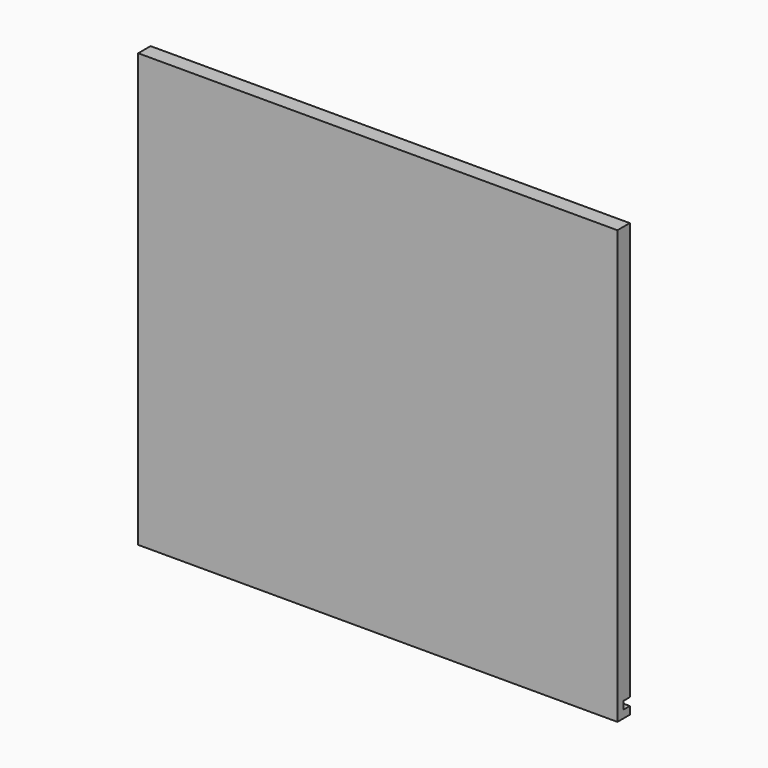
from build123d import *

# Parameters (mm, degrees)
F0_W     = 393.7
F0_H     = 355.6
F1_DEPTH = 6.35
F2_W     = 393.7
F2_H     = 6.35
F3_DEPTH = 6.35


with BuildPart() as f1:
    # F0 (on Front) → F1 (new body, symmetric)
    with BuildSketch(Plane.XZ):
        Rectangle(F0_W, F0_H)
        Rectangle(F0_W, F0_H)
    extrude(amount=F1_DEPTH, both=True)

    # F2 (on face) → F3 (cut)
    with BuildSketch(Plane(origin=(0, 6.35, 0), x_dir=(-1, 0, 0), z_dir=(0, 1, 0))):
        with Locations((0, -168.275)):
            Rectangle(F2_W, F2_H)
    extrude(amount=-F3_DEPTH, mode=Mode.SUBTRACT)


solid = f1.part
